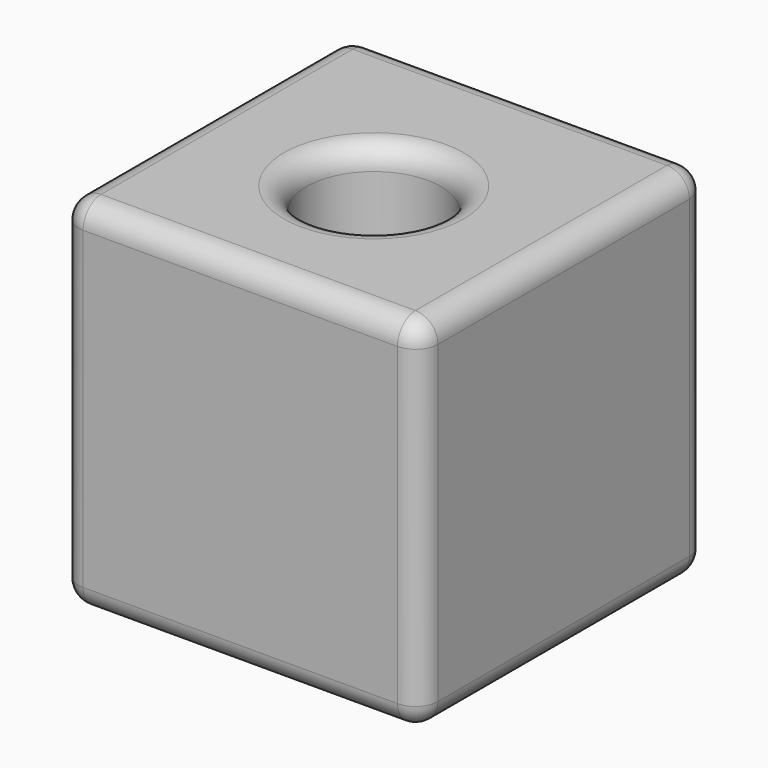
from build123d import *

# Parameters (mm, degrees)
F0_W     = 80
F0_H     = 80
F1_DEPTH = 80
F2_R     = 15
F3_DEPTH = 80.001
F4_R     = 5


with BuildPart() as f1:
    # F0 (on Top) → F1 (new body)
    with BuildSketch(Plane.XY):
        with Locations((0, 2.857143)):
            Rectangle(F0_W, F0_H)
    extrude(amount=F1_DEPTH)

    # F2 (on face) → F3 (cut, through all)
    with BuildSketch(Plane.XY.offset(80)):
        Circle(F2_R)
    extrude(amount=-F3_DEPTH, mode=Mode.SUBTRACT)

    # F4
    f4_edges = [f1.edges().sort_by_distance(p)[0] for p in [
        (0, 42.857143, 80),
        (40, 2.857143, 80),
        (-40, 2.857143, 80),
        (0, -37.142857, 80),
        (-40, -37.142857, 40),
        (40, -37.142857, 40),
        (0, -37.142857, 0),
        (-40, 42.857143, 40),
        (40, 42.857143, 40),
        (0, 42.857143, 0),
        (-40, 2.857143, 0),
        (40, 2.857143, 0),
        (-15, 0, 80),
        (-15, 0, 0),
    ]]
    fillet(f4_edges, radius=F4_R)


solid = f1.part
